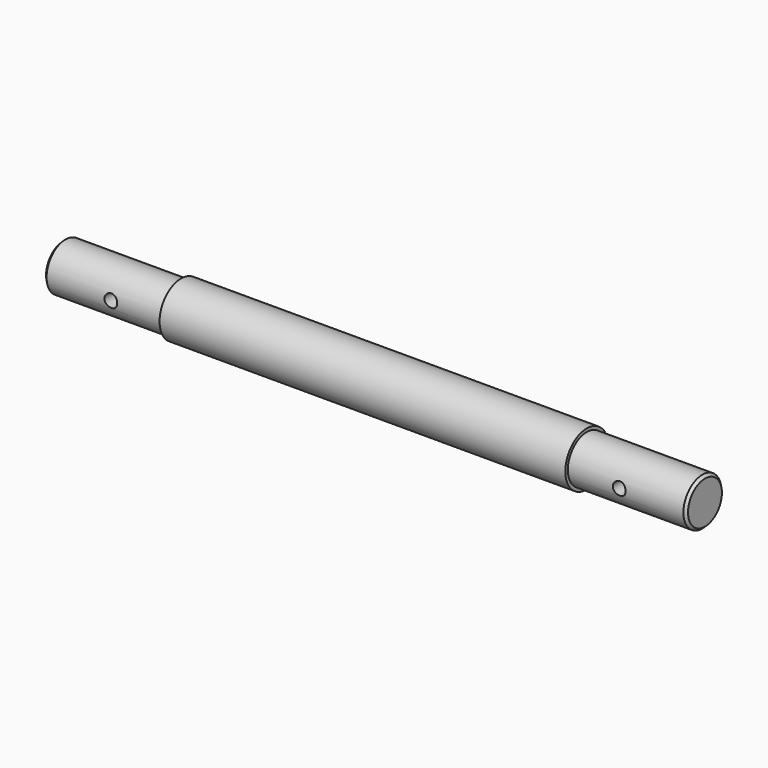
from build123d import *

# Parameters (mm, degrees)
F0_R     = 18.5
F1_DEPTH = 250
F0_R_2   = 21
F2_DEPTH = 158
F3_SIZE  = 2
F5_R     = 5
F6_DEPTH = 50


with BuildPart() as f1:
    # F0 (on Right) → F1 (new body, symmetric)
    with BuildSketch(Plane.YZ):
        Circle(F0_R)
    extrude(amount=F1_DEPTH, both=True)

    # F0 (on Right) → F2 (join, symmetric)
    with BuildSketch(Plane.YZ):
        Circle(F0_R_2)
        Circle(F0_R, mode=Mode.SUBTRACT)
    extrude(amount=F2_DEPTH, both=True)

    # F3
    f3_edges = [f1.edges().sort_by_distance(p)[0] for p in [
        (250, -18.5, 0),
        (-250, -18.5, 0),
    ]]
    chamfer(f3_edges, length=F3_SIZE)

    # F5 (on face) → F6 (cut, symmetric)
    with BuildSketch(Plane.XZ):
        with Locations((-198, 0)):
            Circle(F5_R)
        with Locations((198, 0)):
            Circle(F5_R)
    extrude(amount=F6_DEPTH, both=True, mode=Mode.SUBTRACT)


solid = f1.part
